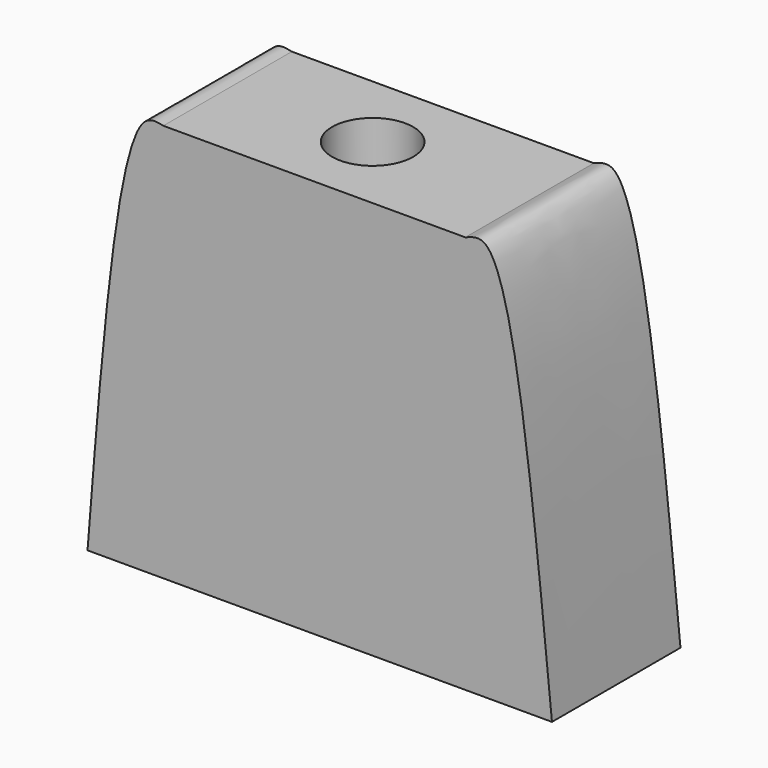
from build123d import *

# Parameters (mm, degrees)
F1_DEPTH = 19.812
F2_R     = 5
F3_DEPTH = 29.972


with BuildPart() as f1:
    # F0 (on Front) → F1 (new body)
    with BuildSketch(Plane.XZ):
        with BuildLine():
            add(Edge.make_bspline(
                [(-57.2814941406, -25.2774953842), (-55.4948378039, -2.6600567826), (-53.3099503119, 24.9986247928), (-48.7638040936, 24.0367135251), (-47.9351952672, 23.8613896072)],
                knots=[0, 0, 0, 0, 0.8177337933, 1, 1, 1, 1], degree=3))
            Line((-57.2814941406, -25.2774953842), (0, -25.2774953842))
            add(Edge.make_bspline(
                [(-10.691601783, 23.8613896072), (-9.820200524, 24.2031852968), (-5.0967860131, 26.0558825509), (-2.289435327, -2.2189544531), (0, -25.2774953842)],
                knots=[0, 0, 0, 0, 0.1844854516, 1, 1, 1, 1], degree=3))
            Line((-10.691601783, 23.8613896072), (-47.9351952672, 23.8613896072))
        make_face()
    extrude(amount=F1_DEPTH)

    # F2 (on Top) → F3 (cut)
    with BuildSketch(Plane.XY):
        with Locations((-30.0922561437, -9.8419375718)):
            Circle(F2_R)
    extrude(amount=F3_DEPTH, mode=Mode.SUBTRACT)


solid = f1.part
